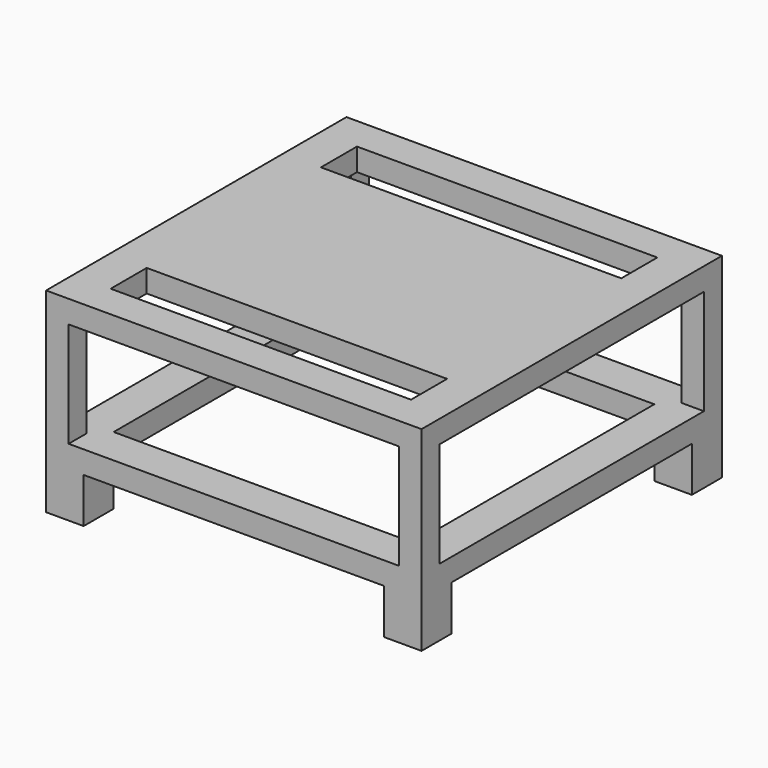
from build123d import *

# Parameters (mm, degrees)
F0_W      = 25
F0_H      = 25
F1_DEPTH  = 10
F5_W      = 22
F5_H      = 7
F6_DEPTH  = 25
F7_W      = 22
F7_H      = 7
F8_DEPTH  = 25
F9_W      = 20
F9_H      = 20
F10_DEPTH = 5
F11_W     = 2.5
F11_H     = 2.5
F12_DEPTH = 3
F3_W      = 20
F3_H      = 3
F13_DEPTH = 5


with BuildPart() as f1:
    # F0 (on Top) → F1 (new body)
    with BuildSketch(Plane.XY):
        Rectangle(F0_W, F0_H)
    extrude(amount=F1_DEPTH)

    # F5 (on face) → F6 (cut)
    with BuildSketch(Plane.XZ.offset(12.5)):
        with Locations((0, 5)):
            Rectangle(F5_W, F5_H)
    extrude(amount=-F6_DEPTH, mode=Mode.SUBTRACT)

    # F7 (on face) → F8 (cut)
    with BuildSketch(Plane.YZ.offset(12.5)):
        with Locations((0, 5)):
            Rectangle(F7_W, F7_H)
    extrude(amount=-F8_DEPTH, mode=Mode.SUBTRACT)

    # F9 (on face) → F10 (cut)
    with BuildSketch(Plane(origin=(0, 0, 0), x_dir=(1, 0, 0), z_dir=(0, 0, -1))):
        Rectangle(F9_W, F9_H)
    extrude(amount=-F10_DEPTH, mode=Mode.SUBTRACT)

    # F11 (on face) → F12 (join)
    with BuildSketch(Plane(origin=(0, 0, 0), x_dir=(1, 0, 0), z_dir=(0, 0, -1))):
        with Locations((11.25, 11.25)):
            Rectangle(F11_W, F11_H)
        with Locations((-11.25, 11.25)):
            Rectangle(F11_W, F11_H)
        with Locations((-11.25, -11.25)):
            Rectangle(F11_W, F11_H)
        with Locations((11.25, -11.25)):
            Rectangle(F11_W, F11_H)
    extrude(amount=F12_DEPTH)

    # F3 (on face) → F13 (cut)
    with BuildSketch(Plane.XY.offset(10)):
        with Locations((0, -8.75)):
            Rectangle(F3_W, F3_H)
        with Locations((0, 8.75)):
            Rectangle(F3_W, F3_H)
    extrude(amount=-F13_DEPTH, mode=Mode.SUBTRACT)


solid = f1.part
